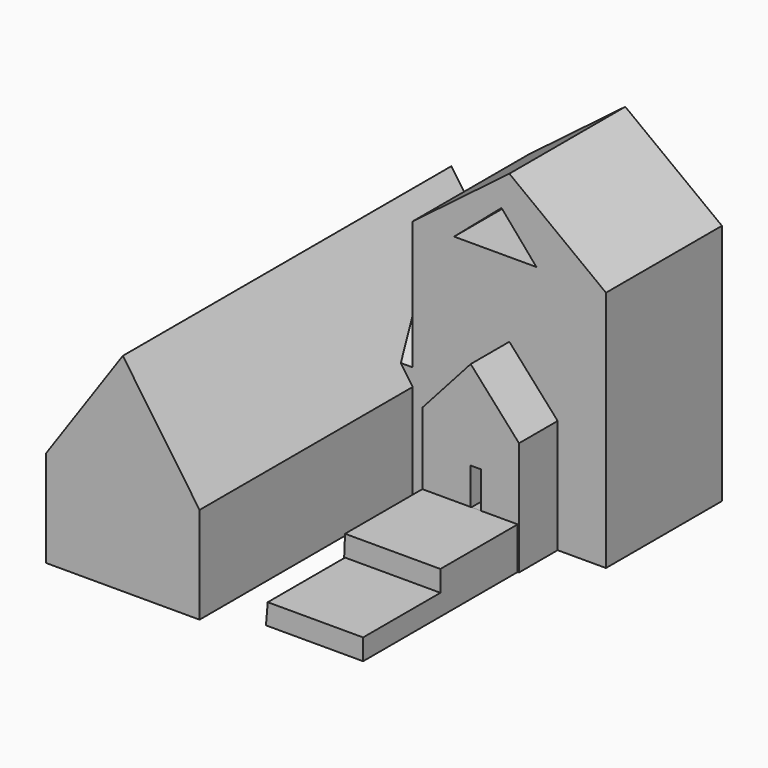
from build123d import *

# Parameters (mm, degrees)
F0_W      = 38.1
F0_H      = 19.05
F1_DEPTH  = 50.8
F2_W      = 25.4
F2_H      = 19.05
F3_DEPTH  = 12.7
F5_DEPTH  = 31.75
F8_DEPTH  = 25.4
F10_DEPTH = 107.95
F11_W     = 38.1
F11_H     = 10.8646959405
F12_DEPTH = 50.8
F14_DEPTH = 25.4
F16_DEPTH = 25.4
F17_W     = 12.7
F17_H     = 10.8646959405
F18_DEPTH = 25.4
F6_W      = 2.6920993537
F6_H      = 9.7637060691
F19_DEPTH = 25.4
F20_DEPTH = 25.4
F21_W     = 11.8566676974
F21_H     = 11.0813332722
F22_DEPTH = 6.35
F23_W     = 4.0861964226
F23_H     = 3.3253813162
F23_W_2   = 3.8762353361
F23_H_2   = 3.7055220455
F23_W_3   = 3.8942359388
F23_H_3   = 4.0504299104
F24_DEPTH = 6.35
F26_DEPTH = 38.1
F28_DEPTH = 38.1
F30_DEPTH = 25.4


with BuildPart() as f1:
    # F0 (on Right) → F1 (new body)
    with BuildSketch(Plane.YZ):
        with Locations((42.7892319858, 20.3896959405)):
            Rectangle(F0_W, F0_H)
        Polygon((23.7392319858, 29.9146959405), (61.8392319858, 29.9146959405), (42.9846160114, 42.6146959405), align=None)
    extrude(amount=F1_DEPTH)

    # F2 (on face) → F3 (join)
    with BuildSketch(Plane.XZ.offset(-23.7392319858)):
        with Locations((25.4, 20.3896959405)):
            Rectangle(F2_W, F2_H)
    extrude(amount=F3_DEPTH)

    # F4 (on face) → F5 (join)
    with BuildSketch(Plane.XZ.offset(-11.0392319858)):
        Polygon((25.4, 44.1137275976), (12.7, 29.9146959405), (38.1, 29.9146959405), align=None)
    extrude(amount=-F5_DEPTH)

    # F7 (on Top) → F8 (join)
    with BuildSketch(Plane.XY):
        Polygon((0, 23.8369237632), (0, 62.1323101223), (-40.3469242156, 62.1323101223), (-40.3469242156, -46.306155622), (0, -46.306155622), align=None)
        Polygon((0, 23.8369237632), (0, 62.1323101223), (-40.3469242156, 62.1323101223), (-40.3469242156, -46.306155622), (0, -46.306155622), align=None)
    extrude(amount=F8_DEPTH)

    # F9 (on face) → F10 (join)
    with BuildSketch(Plane.XZ.offset(46.306155622)):
        Polygon((-20.1734621078, 54.5123107731), (-40.3469242156, 25.4), (0, 25.4), align=None)
    extrude(amount=-F10_DEPTH)

    # F11 (on face) → F12 (join)
    with BuildSketch(Plane.YZ.offset(50.8)):
        with Locations((42.7892319858, 5.4323479703)):
            Rectangle(F11_W, F11_H)
        with Locations((42.7892319858, 5.4323479703)):
            Rectangle(F11_W, F11_H)
    extrude(amount=-F12_DEPTH)

    # F13 (on face) → F14 (join)
    with BuildSketch(Plane.XZ.offset(-11.0392319858)):
        Polygon((37.7532355487, 11.0308341682), (12.6882037148, 11.0308341682), (12.2203705832, 0), (37.7532355487, 0), align=None)
    extrude(amount=F14_DEPTH)

    # F15 (on face) → F16 (join)
    with BuildSketch(Plane.XZ.offset(14.3607680142)):
        Polygon((37.7532355487, 0), (37.7532355487, 5.5154170841), (12.6882037148, 5.5154170841), (12.2203705832, 0), align=None)
    extrude(amount=F16_DEPTH)

    # F17 (on face) → F18 (join)
    with BuildSketch(Plane.YZ.offset(38.1)):
        with Locations((17.3892319858, 5.4323479703)):
            Rectangle(F17_W, F17_H)
    extrude(amount=-F18_DEPTH)

    # F6 (on face) → F19 (cut)
    with BuildSketch(Plane.XZ.offset(-11.0392319858)):
        with Locations((26.7460496768, 15.7465489751)):
            Rectangle(F6_W, F6_H)
    extrude(amount=-F19_DEPTH, mode=Mode.SUBTRACT)

    # F20 (add): a face of the model
    f20_faces = [f1.faces().sort_by_distance(p)[0] for p in [
        (0, 42.8272968204, 31.4509034),
    ]]
    extrude(f20_faces, amount=F20_DEPTH)

    # F21 (on face) → F22 (cut)
    with BuildSketch(Plane(origin=(-40.3469242156, 0, 0), x_dir=(0, -1, 0), z_dir=(-1, 0, 0))):
        with Locations((-41.2407740951, 15.2060096152)):
            Rectangle(F21_W, F21_H)
    extrude(amount=-F22_DEPTH, mode=Mode.SUBTRACT)

    # F23 (on face) → F24 (join)
    with BuildSketch(Plane(origin=(-33.9969242156, 0, 0), x_dir=(0, -1, 0), z_dir=(-1, 0, 0))):
        with Locations((-45.1260097325, 15.3784635477)):
            Rectangle(F23_W, F23_H)
        with Locations((-41.1447938532, 15.3784635477)):
            Rectangle(F23_W_2, F23_H)
        with Locations((-41.1447938532, 18.8939152285)):
            Rectangle(F23_W_2, F23_H_2)
        with Locations((-37.2595582157, 15.3784635477)):
            Rectangle(F23_W_3, F23_H)
        with Locations((-41.1447938532, 11.6905579343)):
            Rectangle(F23_W_2, F23_H_3)
    extrude(amount=F24_DEPTH)

    # F25 (on face) → F26 (join)
    with BuildSketch(Plane.XZ.offset(-23.7392319858)):
        Polygon((38.1, 29.9146959405), (50.8, 29.9146959405), (50.8, 63.7161359191), (0, 63.7161359191), (0, 29.9146959405), align=None)
    extrude(amount=-F26_DEPTH)

    # F27 (on face) → F28 (join)
    with BuildSketch(Plane.XZ.offset(-23.7392319858)):
        Polygon((25.4, 83.0065757036), (0, 63.7161359191), (50.8, 63.7161359191), align=None)
    extrude(amount=-F28_DEPTH)

    # F29 (on face) → F30 (cut)
    with BuildSketch(Plane.XZ.offset(-23.7392319858)):
        Polygon((23.3422555029, 74.4133889675), (10.8735319227, 63.7161359191), (32.519716375, 63.7161359191), align=None)
    extrude(amount=-F30_DEPTH, mode=Mode.SUBTRACT)


solid = f1.part
